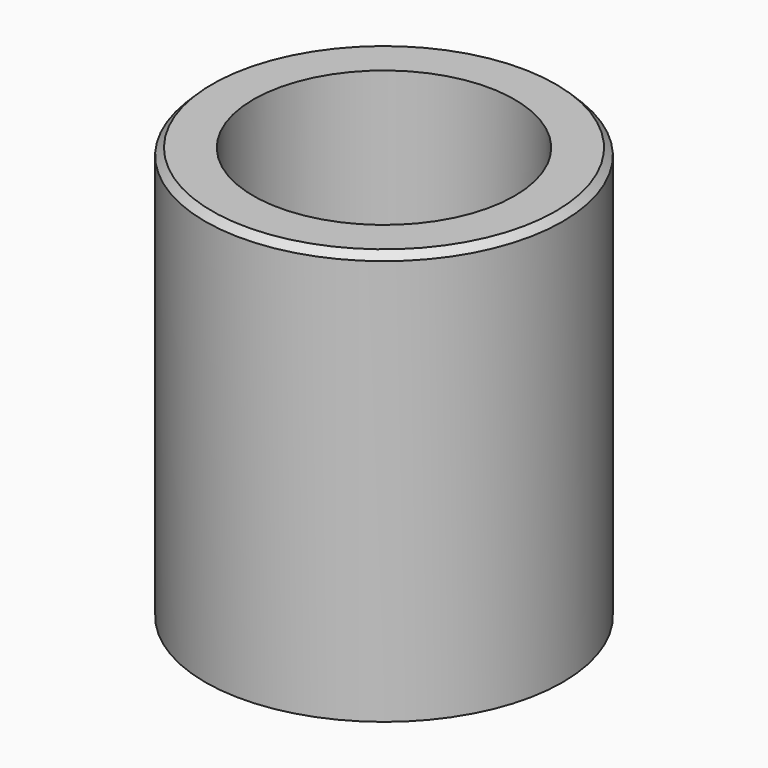
from build123d import *

# Parameters (mm, degrees)
SKETCH_R        = 13
SKETCH_R_2      = 8.1
PAD_DEPTH       = 10
SKETCH001_R     = 13
SKETCH001_R_2   = 9.5
PAD001_DEPTH    = 20
CHAMFER_SIZE    = 0.5
CHAMFER001_SIZE = 0.5


with BuildPart() as part:
    # Sketch → Pad (new body)
    with BuildSketch(Plane.XY):
        Circle(SKETCH_R)
        Circle(SKETCH_R_2, mode=Mode.SUBTRACT)
    extrude(amount=PAD_DEPTH)

    # Sketch001 (on Face4 of Pad) → Pad001 (join)
    with BuildSketch(Plane.XY.offset(10)):
        Circle(SKETCH001_R)
        Circle(SKETCH001_R_2, mode=Mode.SUBTRACT)
    extrude(amount=PAD001_DEPTH)

    # Chamfer
    chamfer_edges = [part.edges().sort_by_distance(p)[0] for p in [
        (-8.1, 0, 0),
    ]]
    chamfer(chamfer_edges, length=CHAMFER_SIZE)

    # Chamfer001
    chamfer001_edges = [part.edges().sort_by_distance(p)[0] for p in [
        (-13, 0, 30),
    ]]
    chamfer(chamfer001_edges, length=CHAMFER001_SIZE)


solid = part.part
